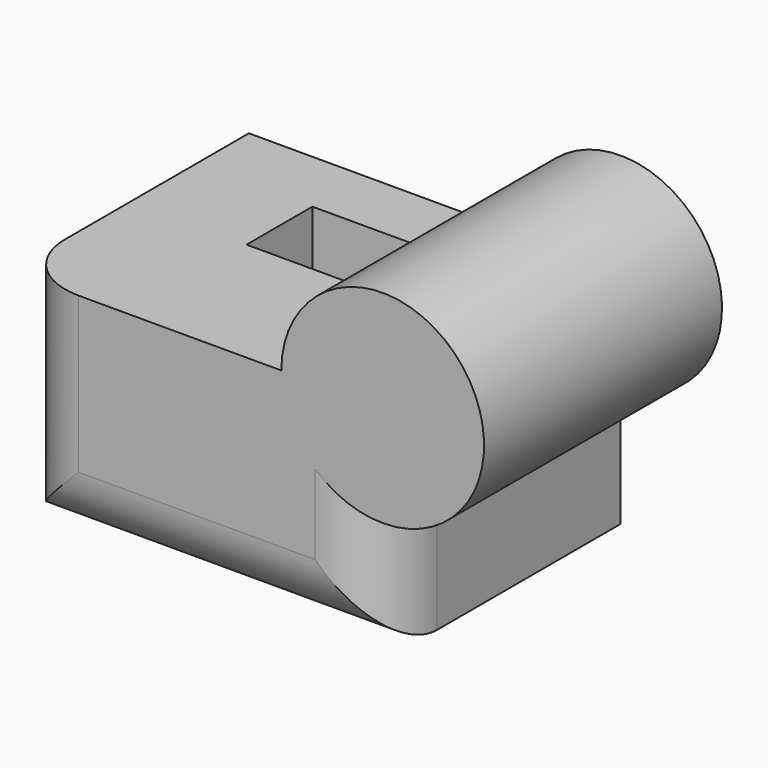
from build123d import *

# Parameters (mm, degrees)
F1_DEPTH = 44
F2_R     = 10
F4_DEPTH = 50.9


with BuildPart() as f1:
    # F0 (on Front) → F1 (new body)
    with BuildSketch(Plane.XZ):
        with BuildLine():
            Line((18, 7.333334), (-22, 7.333334))
            Line((-22, 7.333334), (-22, -25.666667))
            Line((-22, -25.666667), (33, -25.666667))
            Line((33, -25.666667), (33, -7.666666))
            ThreePointArc((33, -7.666666), (43.606602, 17.939935), (18, 7.333334))
        make_face()
    extrude(amount=F1_DEPTH)

    # F2
    f2_edges = [f1.edges().sort_by_distance(p)[0] for p in [
        (5.5, -44, -25.666667),
        (33, -44, -16.666667),
        (-22, -44, -9.166667),
    ]]
    fillet(f2_edges, radius=F2_R)

    # F3 (on face) → F4 (cut)
    with BuildSketch(Plane(origin=(0, 0, -25.666667), x_dir=(1, 0, 0), z_dir=(0, 0, -1))):
        with BuildLine():
            Line((15.25307, 21.926958), (-4.803377, 21.926958))
            Line((-4.803377, 21.926958), (-4.803377, 9.747743))
            Line((-4.803377, 9.747743), (20.25307, 9.747743))
            Line((20.25307, 9.747743), (20.25307, 16.926958))
            ThreePointArc((20.25307, 16.926958), (18.788604, 20.462492), (15.25307, 21.926958))
        make_face()
    extrude(amount=-F4_DEPTH, mode=Mode.SUBTRACT)


solid = f1.part
